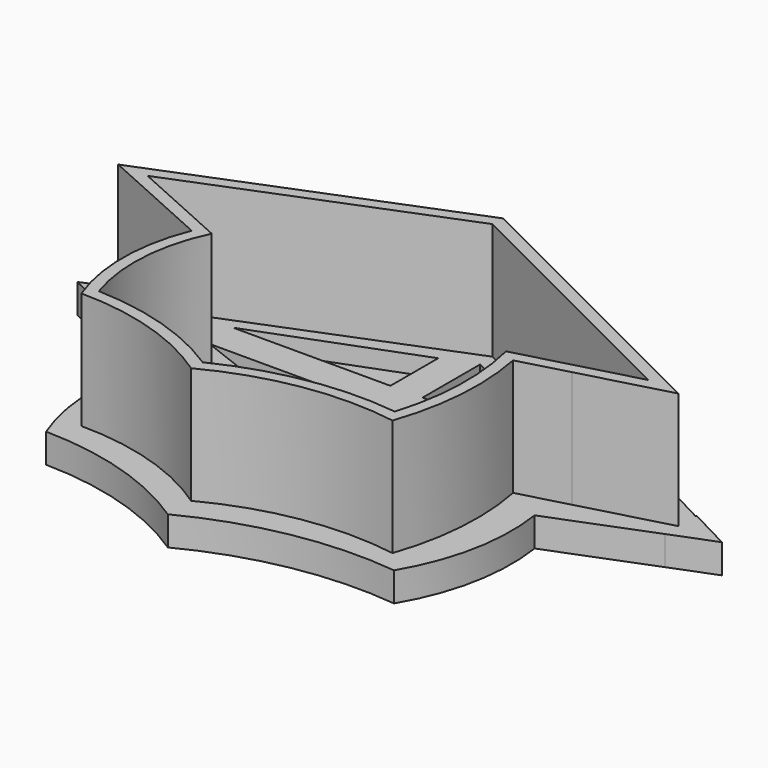
from build123d import *

# Parameters (mm, degrees)
F1_DEPTH = 25
F2_T     = -2
F3_DEPTH = 5


with BuildPart() as f1:
    # F0 (on Top) → F1 (new body)
    with BuildSketch(Plane.XY):
        with BuildLine():
            Line((50, 25), (0, 50))
            Line((0, 50), (-50, 30))
            Line((-50, 30), (-30.3478781134, 21.1675856689))
            ThreePointArc((-30.3478781134, 21.1675856689), (-32.6493723673, 9.4732493681), (-30.5, -2.25))
            Line((-30.5, -2.25), (-26.5, -2.25))
            Line((-26.5, -2.25), (-26.5, 3.6853529656))
            ThreePointArc((-26.5, 3.6853529656), (-27.4818472664, 11.1586005985), (-26.5, 18.6318482313))
            Line((-26.5, 18.6318482313), (-26.5, 19.4382022472))
            Line((-26.5, 19.4382022472), (-26.2986962157, 19.3477286363))
            ThreePointArc((-26.2986962157, 19.3477286363), (-25.4656340579, 21.7699494798), (-24.4215968996, 24.1089947522))
            Line((-24.4215968996, 24.1089947522), (-31.9740222767, 27.0544973761))
            Line((-31.9740222767, 27.0544973761), (-39.5264476538, 30))
            Line((-39.5264476538, 30), (-32.4590496756, 32.6820262372))
            Line((-32.4590496756, 32.6820262372), (-5.5, 42.9127899192))
            Line((-5.5, 42.9127899192), (0, 45))
            Line((0, 45), (24.6359475255, 32.6820262372))
            Line((24.6359475255, 32.6820262372), (35.8910052478, 27.0544973761))
            Line((35.8910052478, 27.0544973761), (38.0609311461, 25.9695344269))
            Line((38.0609311461, 25.9695344269), (34.1284329528, 25))
            Line((34.1284329528, 25), (25.6717936096, 22.915065036))
            ThreePointArc((25.6717936096, 22.915065036), (26.2373168575, 20.8214995062), (26.7024967211, 18.7033774922))
            Line((26.7024967211, 18.7033774922), (35, 20.9459459459))
            Line((35, 20.9459459459), (50, 25))
        make_face()
        with BuildLine():
            Line((-26.5, 3.6853529656), (-26.5, -2.25))
            Line((-26.5, -2.25), (-11.0695765548, -2.25))
            ThreePointArc((-11.0695765548, -2.25), (-18.3080653559, 0.1805256036), (-25.8265792788, 1.5128631071))
            ThreePointArc((-25.8265792788, 1.5128631071), (-26.1846465442, 2.5924878985), (-26.5, 3.6853529656))
        make_face()
        with BuildLine():
            ThreePointArc((25, -5), (27.4252333214, 6.7386371679), (26.7024967211, 18.7033774922))
            Line((26.7024967211, 18.7033774922), (22.2313324849, 17.4949547256))
            ThreePointArc((22.2313324849, 17.4949547256), (22.7872104866, 8.7214855275), (21.6833752096, 0))
            ThreePointArc((21.6833752096, 0), (10.6895547346, 0.0246300535), (0, -2.5440495396))
            ThreePointArc((0, -2.5440495396), (-2.7899905559, -3.6824675653), (-5.5, -5))
            Line((-5.5, -5), (-5.5, -10))
            ThreePointArc((-5.5, -10), (9.3443058496, -5.0252656824), (25, -5))
        make_face()
        with BuildLine():
            Line((-26.5, -2.25), (-30.5, -2.25))
            ThreePointArc((-30.5, -2.25), (-17.4131506848, -4.2319376927), (-5.5, -10))
            Line((-5.5, -10), (-5.5, -5))
            ThreePointArc((-5.5, -5), (-8.2432452262, -3.5408628349), (-11.0695765548, -2.25))
            Line((-11.0695765548, -2.25), (-26.5, -2.25))
        make_face()
        with BuildLine():
            Line((-26.5, -2.25), (-30.5, -2.25))
            ThreePointArc((-30.5, -2.25), (-17.4131506848, -4.2319376927), (-5.5, -10))
            Line((-5.5, -10), (-5.5, -5))
            ThreePointArc((-5.5, -5), (-8.2432452262, -3.5408628349), (-11.0695765548, -2.25))
            Line((-11.0695765548, -2.25), (-26.5, -2.25))
        make_face()
        with BuildLine():
            Line((-5.5, -2.25), (-11.0695765548, -2.25))
            ThreePointArc((-11.0695765548, -2.25), (-8.2432452262, -3.5408628349), (-5.5, -5))
            Line((-5.5, -5), (-5.5, -2.25))
        make_face()
        with BuildLine():
            Line((-5.5, -2.25), (-5.5, -5))
            ThreePointArc((-5.5, -5), (-2.7899905559, -3.6824675653), (0, -2.5440495396))
            Line((0, -2.5440495396), (0, 10))
            Line((0, 10), (0, 15))
            Line((0, 15), (0, 25))
            Line((0, 25), (0, 27.0544973761))
            Line((0, 27.0544973761), (0, 30))
            Line((0, 30), (0, 32.6820262372))
            Line((0, 32.6820262372), (0, 45))
            Line((0, 45), (-5.5, 42.9127899192))
            Line((-5.5, 42.9127899192), (-5.5, 32.6820262372))
            Line((-5.5, 32.6820262372), (-32.4590496756, 32.6820262372))
            Line((-32.4590496756, 32.6820262372), (-39.5264476538, 30))
            Line((-39.5264476538, 30), (-31.9740222767, 27.0544973761))
            Line((-31.9740222767, 27.0544973761), (-5.5, 27.0544973761))
            Line((-5.5, 27.0544973761), (-5.5, -2.25))
        make_face()
        with BuildLine():
            Line((21.3245172054, 21.8432694674), (25.6717936096, 22.915065036))
            Line((25.6717936096, 22.915065036), (34.1284329528, 25))
            Line((34.1284329528, 25), (38.0609311461, 25.9695344269))
            Line((38.0609311461, 25.9695344269), (35.8910052478, 27.0544973761))
            Line((35.8910052478, 27.0544973761), (0, 27.0544973761))
            Line((0, 27.0544973761), (0, 25))
            Line((0, 25), (0, 15))
            Line((0, 15), (0, 10))
            Line((0, 10), (0, -2.5440495396))
            ThreePointArc((0, -2.5440495396), (10.6895547346, 0.0246300535), (21.6833752096, 0))
            ThreePointArc((21.6833752096, 0), (22.7872104866, 8.7214855275), (22.2313324849, 17.4949547256))
            ThreePointArc((22.2313324849, 17.4949547256), (21.8298295871, 19.6799365229), (21.3245172054, 21.8432694674))
        make_face()
        with BuildLine():
            Line((22.2313324849, 17.4949547256), (26.7024967211, 18.7033774922))
            ThreePointArc((26.7024967211, 18.7033774922), (26.2373168575, 20.8214995062), (25.6717936096, 22.915065036))
            Line((25.6717936096, 22.915065036), (21.3245172054, 21.8432694674))
            ThreePointArc((21.3245172054, 21.8432694674), (21.8298295871, 19.6799365229), (22.2313324849, 17.4949547256))
        make_face()
        Polygon((0, 27.0544973761), (35.8910052478, 27.0544973761), (24.6359475255, 32.6820262372), (0, 32.6820262372), (0, 30), align=None)
        Polygon((0, 32.6820262372), (24.6359475255, 32.6820262372), (0, 45), align=None)
        Polygon((-5.5, 32.6820262372), (-5.5, 42.9127899192), (-32.4590496756, 32.6820262372), align=None)
        with BuildLine():
            ThreePointArc((-25.8265792788, 1.5128631071), (-18.3080653559, 0.1805256036), (-11.0695765548, -2.25))
            Line((-11.0695765548, -2.25), (-5.5, -2.25))
            Line((-5.5, -2.25), (-5.5, 27.0544973761))
            Line((-5.5, 27.0544973761), (-31.9740222767, 27.0544973761))
            Line((-31.9740222767, 27.0544973761), (-24.4215968996, 24.1089947522))
            ThreePointArc((-24.4215968996, 24.1089947522), (-25.4656340579, 21.7699494798), (-26.2986962157, 19.3477286363))
            ThreePointArc((-26.2986962157, 19.3477286363), (-26.4016482615, 18.9904352313), (-26.5, 18.6318482313))
            ThreePointArc((-26.5, 18.6318482313), (-27.4818472664, 11.1586005985), (-26.5, 3.6853529656))
            ThreePointArc((-26.5, 3.6853529656), (-26.1846465442, 2.5924878985), (-25.8265792788, 1.5128631071))
        make_face()
        with BuildLine():
            Line((-26.5, 19.4382022472), (-26.5, 18.6318482313))
            ThreePointArc((-26.5, 18.6318482313), (-26.4016482615, 18.9904352313), (-26.2986962157, 19.3477286363))
            Line((-26.2986962157, 19.3477286363), (-26.5, 19.4382022472))
        make_face()
    extrude(amount=F1_DEPTH)

    # F2
    f2_openings = [f1.faces().sort_by_distance(p)[0] for p in [
        (-1.454466, 20.176979, 25),
    ]]
    offset(amount=F2_T, openings=f2_openings, kind=Kind.INTERSECTION)

    # F0 (on Top) → F3 (join)
    with BuildSketch(Plane.XY):
        with BuildLine():
            Line((50, 22.0773804358), (50, 25))
            Line((50, 25), (35, 20.9459459459))
            Line((35, 20.9459459459), (26.7024967211, 18.7033774922))
            ThreePointArc((26.7024967211, 18.7033774922), (27.4252333214, 6.7386371679), (25, -5))
            ThreePointArc((25, -5), (9.3443058496, -5.0252656824), (-5.5, -10))
            Line((-5.5, -10), (-5.5, -15))
            ThreePointArc((-5.5, -15), (10.9294258994, -9.3812200513), (28.2823865676, -8.7717288371))
            ThreePointArc((28.2823865676, -8.7717288371), (32.739691971, 2.91239876), (33.0105349422, 15.4149206355))
            Line((33.0105349422, 15.4149206355), (50, 22.0773804358))
        make_face()
        Polygon((50, 28.6842105263), (9.5, 50), (0, 50), (50, 25), align=None)
        Polygon((0, 50), (9.5, 50), (0, 55), (-11.4, 50), align=None)
        Polygon((-50, 30), (0, 50), (-11.4, 50), (-50, 33.0701754386), align=None)
        Polygon((-50, 26.6638008012), (-50, 30), (-50, 33.0701754386), (-57, 30), align=None)
        with BuildLine():
            Line((-30.3478781134, 21.1675856689), (-50, 30))
            Line((-50, 30), (-50, 26.6638008012))
            Line((-50, 26.6638008012), (-33.6950486526, 18.8928628554))
            ThreePointArc((-33.6950486526, 18.8928628554), (-35.7455733347, 6.1667010563), (-33.1864199092, -6.467007004))
            ThreePointArc((-33.1864199092, -6.467007004), (-18.7245752181, -8.7262616008), (-5.5, -15))
            Line((-5.5, -15), (-5.5, -10))
            ThreePointArc((-5.5, -10), (-17.4131506848, -4.2319376927), (-30.5, -2.25))
            ThreePointArc((-30.5, -2.25), (-32.6493723673, 9.4732493681), (-30.3478781134, 21.1675856689))
        make_face()
        with BuildLine():
            ThreePointArc((25, -5), (27.4252333214, 6.7386371679), (26.7024967211, 18.7033774922))
            Line((26.7024967211, 18.7033774922), (22.2313324849, 17.4949547256))
            ThreePointArc((22.2313324849, 17.4949547256), (22.7872104866, 8.7214855275), (21.6833752096, 0))
            ThreePointArc((21.6833752096, 0), (10.6895547346, 0.0246300535), (0, -2.5440495396))
            ThreePointArc((0, -2.5440495396), (-2.7899905559, -3.6824675653), (-5.5, -5))
            Line((-5.5, -5), (-5.5, -10))
            ThreePointArc((-5.5, -10), (9.3443058496, -5.0252656824), (25, -5))
        make_face()
        with BuildLine():
            Line((-26.5, -2.25), (-30.5, -2.25))
            ThreePointArc((-30.5, -2.25), (-17.4131506848, -4.2319376927), (-5.5, -10))
            Line((-5.5, -10), (-5.5, -5))
            ThreePointArc((-5.5, -5), (-8.2432452262, -3.5408628349), (-11.0695765548, -2.25))
            Line((-11.0695765548, -2.25), (-26.5, -2.25))
        make_face()
        with BuildLine():
            Line((-26.5, 3.6853529656), (-26.5, -2.25))
            Line((-26.5, -2.25), (-11.0695765548, -2.25))
            ThreePointArc((-11.0695765548, -2.25), (-18.3080653559, 0.1805256036), (-25.8265792788, 1.5128631071))
            ThreePointArc((-25.8265792788, 1.5128631071), (-26.1846465442, 2.5924878985), (-26.5, 3.6853529656))
        make_face()
        with BuildLine():
            Line((50, 25), (0, 50))
            Line((0, 50), (-50, 30))
            Line((-50, 30), (-30.3478781134, 21.1675856689))
            ThreePointArc((-30.3478781134, 21.1675856689), (-32.6493723673, 9.4732493681), (-30.5, -2.25))
            Line((-30.5, -2.25), (-26.5, -2.25))
            Line((-26.5, -2.25), (-26.5, 3.6853529656))
            ThreePointArc((-26.5, 3.6853529656), (-27.4818472664, 11.1586005985), (-26.5, 18.6318482313))
            Line((-26.5, 18.6318482313), (-26.5, 19.4382022472))
            Line((-26.5, 19.4382022472), (-26.2986962157, 19.3477286363))
            ThreePointArc((-26.2986962157, 19.3477286363), (-25.4656340579, 21.7699494798), (-24.4215968996, 24.1089947522))
            Line((-24.4215968996, 24.1089947522), (-31.9740222767, 27.0544973761))
            Line((-31.9740222767, 27.0544973761), (-39.5264476538, 30))
            Line((-39.5264476538, 30), (-32.4590496756, 32.6820262372))
            Line((-32.4590496756, 32.6820262372), (-5.5, 42.9127899192))
            Line((-5.5, 42.9127899192), (0, 45))
            Line((0, 45), (24.6359475255, 32.6820262372))
            Line((24.6359475255, 32.6820262372), (35.8910052478, 27.0544973761))
            Line((35.8910052478, 27.0544973761), (38.0609311461, 25.9695344269))
            Line((38.0609311461, 25.9695344269), (34.1284329528, 25))
            Line((34.1284329528, 25), (25.6717936096, 22.915065036))
            ThreePointArc((25.6717936096, 22.915065036), (26.2373168575, 20.8214995062), (26.7024967211, 18.7033774922))
            Line((26.7024967211, 18.7033774922), (35, 20.9459459459))
            Line((35, 20.9459459459), (50, 25))
        make_face()
        with BuildLine():
            Line((22.2313324849, 17.4949547256), (26.7024967211, 18.7033774922))
            ThreePointArc((26.7024967211, 18.7033774922), (26.2373168575, 20.8214995062), (25.6717936096, 22.915065036))
            Line((25.6717936096, 22.915065036), (21.3245172054, 21.8432694674))
            ThreePointArc((21.3245172054, 21.8432694674), (21.8298295871, 19.6799365229), (22.2313324849, 17.4949547256))
        make_face()
        with BuildLine():
            Line((-5.5, -2.25), (-5.5, -5))
            ThreePointArc((-5.5, -5), (-2.7899905559, -3.6824675653), (0, -2.5440495396))
            Line((0, -2.5440495396), (0, 10))
            Line((0, 10), (0, 15))
            Line((0, 15), (0, 25))
            Line((0, 25), (0, 27.0544973761))
            Line((0, 27.0544973761), (0, 30))
            Line((0, 30), (0, 32.6820262372))
            Line((0, 32.6820262372), (0, 45))
            Line((0, 45), (-5.5, 42.9127899192))
            Line((-5.5, 42.9127899192), (-5.5, 32.6820262372))
            Line((-5.5, 32.6820262372), (-32.4590496756, 32.6820262372))
            Line((-32.4590496756, 32.6820262372), (-39.5264476538, 30))
            Line((-39.5264476538, 30), (-31.9740222767, 27.0544973761))
            Line((-31.9740222767, 27.0544973761), (-5.5, 27.0544973761))
            Line((-5.5, 27.0544973761), (-5.5, -2.25))
        make_face()
        Polygon((0, 27.0544973761), (35.8910052478, 27.0544973761), (24.6359475255, 32.6820262372), (0, 32.6820262372), (0, 30), align=None)
        Polygon((57.4527643621, 25), (50, 28.8915957021), (50, 28.6842105263), (50, 25), (50, 22.0773804358), align=None)
    extrude(amount=F3_DEPTH)


solid = f1.part
